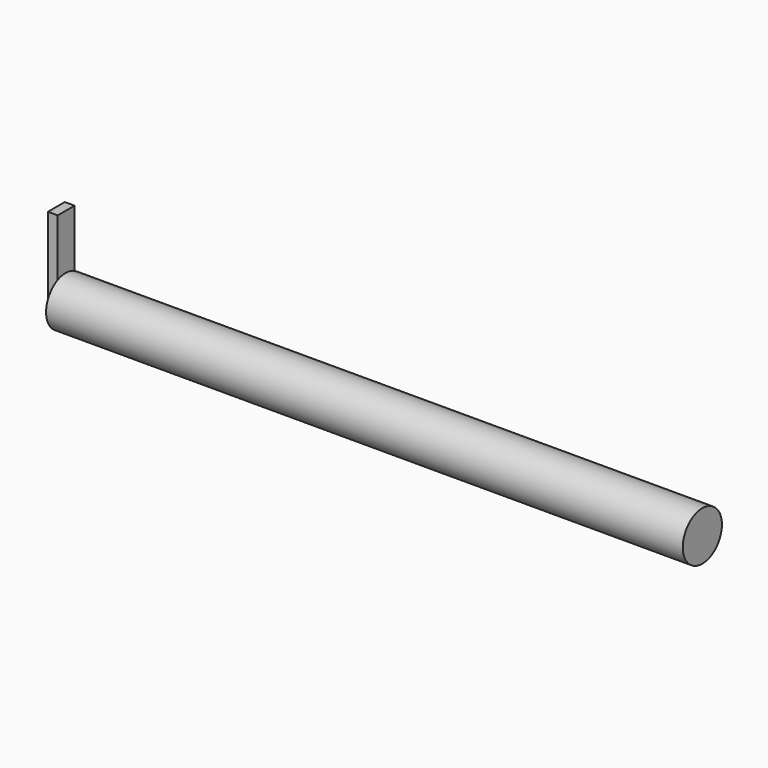
from build123d import *

# Parameters (mm, degrees)
F0_R     = 3.175
F1_DEPTH = 82.55
F2_W     = 2.726714
F2_H     = 1.16385
F3_DEPTH = 1.27
F4_W     = 1.27
F4_H     = 2.726714
F5_DEPTH = 7.62
F6_W     = 1.27
F6_H     = 2.726714
F7_DEPTH = 3.81


with BuildPart() as f1:
    # F0 (on Right) → F1 (new body)
    with BuildSketch(Plane.YZ):
        Circle(F0_R)
    extrude(amount=F1_DEPTH)

    # F2 (on face) → F3 (join)
    with BuildSketch(Plane.YZ):
        with Locations((0.08243, 2.065926)):
            Rectangle(F2_W, F2_H)
    extrude(amount=-F3_DEPTH)

    # F4 (on face) → F5 (join)
    with BuildSketch(Plane.XY.offset(2.647851)):
        with Locations((-0.635, 0.08243)):
            Rectangle(F4_W, F4_H)
    extrude(amount=F5_DEPTH)

    # F6 (on face) → F7 (join)
    with BuildSketch(Plane(origin=(0, 0, 1.484001), x_dir=(1, 0, 0), z_dir=(0, 0, -1))):
        with Locations((-0.635, -0.08243)):
            Rectangle(F6_W, F6_H)
    extrude(amount=F7_DEPTH)


solid = f1.part
